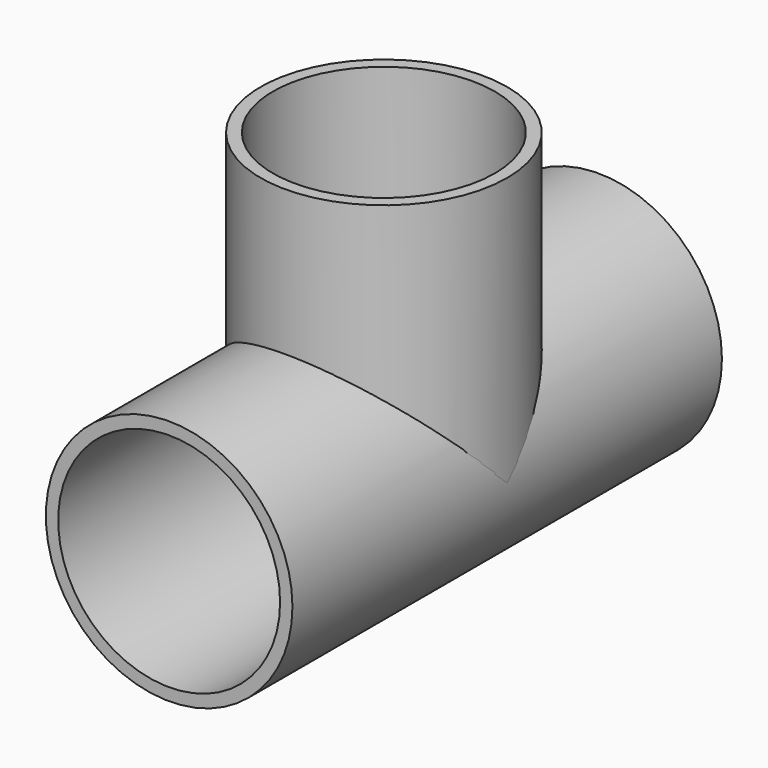
from build123d import *

# Parameters (mm, degrees)
F0_R          = 8.7503
F0_R_2        = 7.874
F2_DEPTH      = 19.05
F2_DEPTH_BACK = 19.05
F1_R          = 8.7503
F1_R_2        = 7.874
F3_DEPTH      = 19.05
F4_D          = 15.748
F4_DEPTH      = 8.7513
F5_D          = 15.748
F5_DEPTH      = 8.7513
F6_D          = 15.748


with BuildPart() as f2:
    # F0 (on Front) → F2 (new body, two sides)
    with BuildSketch(Plane.XZ) as f2_sk:
        Circle(F0_R)
        Circle(F0_R_2, mode=Mode.SUBTRACT)
    extrude(amount=F2_DEPTH)
    extrude(f2_sk.sketch, amount=-F2_DEPTH_BACK)

    # F4 (through all, one way)
    with BuildSketch(Plane(origin=(0, 0, 0), x_dir=(1, 0, 0), z_dir=(0, 0, -1))):
        with Locations((0, 0)):
            Circle(F4_D / 2)
    extrude(amount=-F4_DEPTH, mode=Mode.SUBTRACT)


with BuildPart() as f3:
    # F1 (on Top) → F3 (new body)
    with BuildSketch(Plane.XY):
        Circle(F1_R)
        Circle(F1_R_2, mode=Mode.SUBTRACT)
    extrude(amount=F3_DEPTH)

    # F5 (through all, one way)
    with BuildSketch(Plane(origin=(0, 0, 0), x_dir=(1, 0, 0), z_dir=(0, 1, 0))):
        with Locations((0, 0)):
            Circle(F5_D / 2)
    extrude(amount=-F5_DEPTH, mode=Mode.SUBTRACT)

    # F6 (through all)
    with Locations(Plane.XZ):
        with Locations((0, 0)):
            Hole(F6_D / 2)


solid = Compound([f2.part, f3.part])
